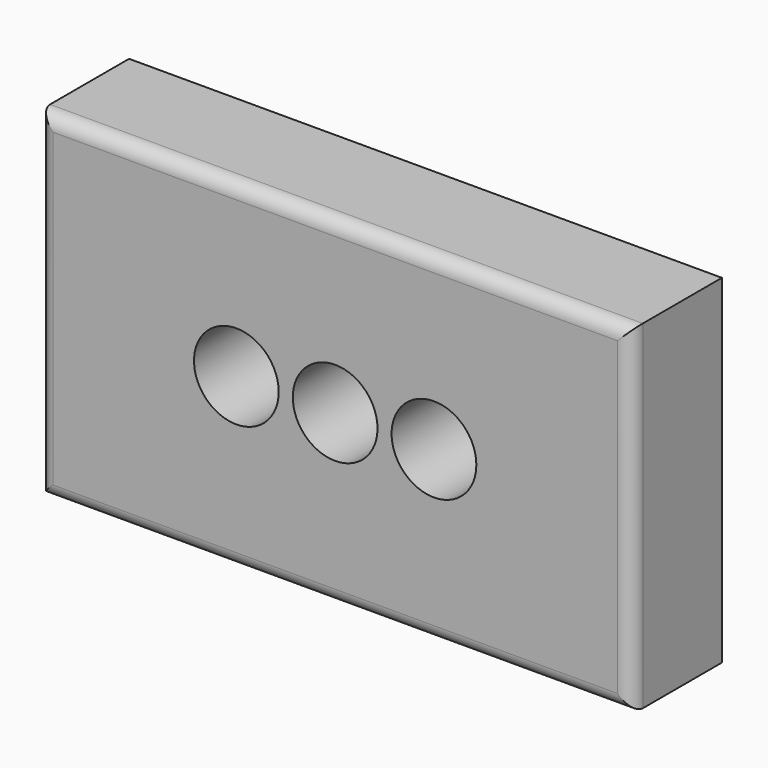
from build123d import *

# Parameters (mm, degrees)
F0_W     = 105
F0_H     = 60
F0_R     = 7.5
F0_R_2   = 7.5057
F1_DEPTH = 20
F2_R     = 2.5


with BuildPart() as f1:
    # F0 (on Front) → F1 (new body)
    with BuildSketch(Plane.XZ):
        Rectangle(F0_W, F0_H)
        with Locations((-17.5, 0)):
            Circle(F0_R, mode=Mode.SUBTRACT)
        Circle(F0_R, mode=Mode.SUBTRACT)
        with Locations((17.5, 0)):
            Circle(F0_R_2, mode=Mode.SUBTRACT)
    extrude(amount=F1_DEPTH)

    # F2
    f2_edges = [f1.edges().sort_by_distance(p)[0] for p in [
        (-52.5, -20, 0),
        (0, -20, 30),
        (0, -20, -30),
        (52.5, -20, 0),
    ]]
    fillet(f2_edges, radius=F2_R)


solid = f1.part
